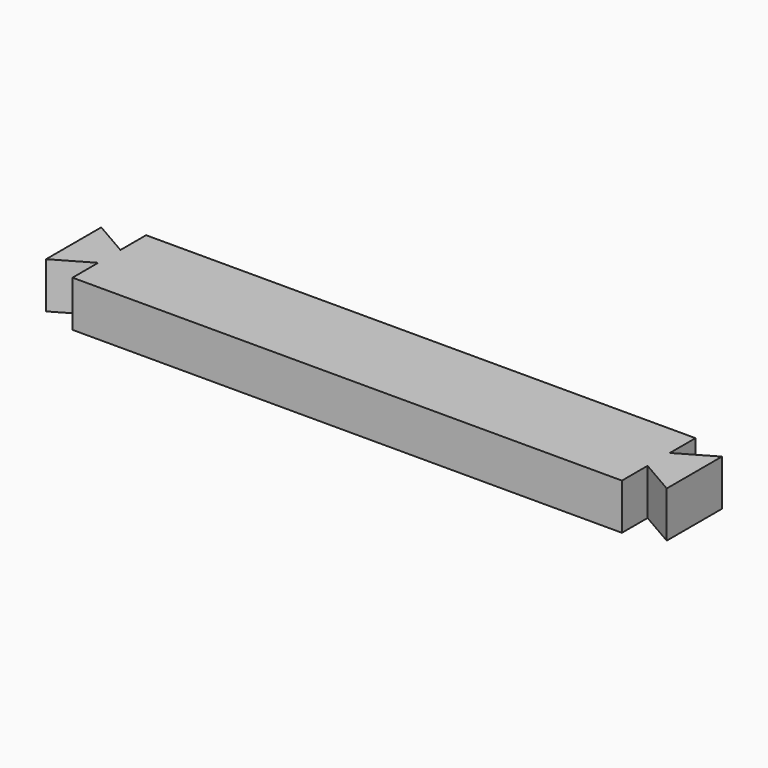
from build123d import *

# Parameters (mm, degrees)
SKETCH_W     = 135
SKETCH_H     = 20
PAD_DEPTH    = 10
POCKET_DEPTH = 10


with BuildPart() as part:
    # Sketch → Pad (new body)
    with BuildSketch(Plane.XY):
        with Locations((0.531994, 1.222491)):
            Rectangle(SKETCH_W, SKETCH_H)
    extrude(amount=PAD_DEPTH)

    # Sketch001 (on Face6 of Pad) → Pocket (cut)
    with BuildSketch(Plane.XY.offset(10)):
        Polygon((-66.968006, 8.722491), (-59.218006, 4.248027), (-59.218006, 16.222491), (-71.968006, 16.222491), (-71.968006, -13.777509), (-59.218006, -13.777509), (-59.218006, -1.803044), (-66.968006, -6.277509), align=None)
        Polygon((68.031994, 8.722491), (60.281994, 4.248027), (60.281994, 16.222491), (73.031994, 16.222491), (73.031994, -13.777509), (60.281994, -13.777509), (60.281994, -1.803044), (68.031994, -6.277509), align=None)
    extrude(amount=-POCKET_DEPTH, mode=Mode.SUBTRACT)


solid = part.part
